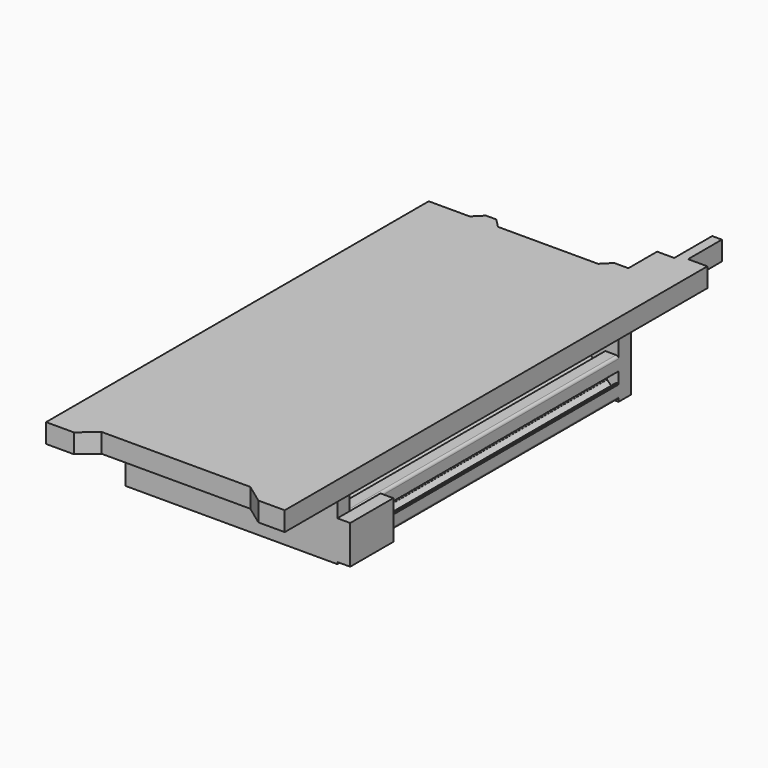
from build123d import *

# Parameters (mm, degrees)
BOX_W                 = 10
BOX_H                 = 42
BOX_DEPTH             = 30
BOX006_W              = 141
BOX006_H              = 285
BOX006_DEPTH          = 13.5
PAD022_DEPTH          = 15
PAD023_DEPTH          = 15
BOX027_W              = 165
BOX027_H              = 12
BOX027_DEPTH          = 45
BOX034_W              = 165
BOX034_H              = 12
BOX034_DEPTH          = 45
PAD001_DEPTH          = 286
POCKET_DEPTH          = 864.260457
POLARPATTERN_COUNT    = 4
SKETCH003_R           = 3.65
POCKET001_DEPTH       = 286.001
POCKET002_DEPTH       = 864.260457
POLARPATTERN001_COUNT = 4
BODY_ROLL_ANGLE       = 90
BODY_PLACEMENT_ANGLE  = 180


with BuildPart() as displaymount:
    # Box → Box (new body)
    with BuildSketch(Plane(origin=(15, -180, -30), x_dir=(1, 0, 0), z_dir=(0, 0, 1))):
        with Locations((5, 21)):
            Rectangle(BOX_W, BOX_H)
    extrude(amount=BOX_DEPTH)


with BuildPart() as obj1:
    # Box006 → Box006 (new body)
    with BuildSketch(Plane(origin=(-150, -178, 0), x_dir=(1, 0, 0), z_dir=(0, 0, 1))):
        with Locations((70.5, 142.5)):
            Rectangle(BOX006_W, BOX006_H)
    extrude(amount=BOX006_DEPTH)


with BuildPart() as heatbed:
    # Sketch008 → Pad022 (new body)
    with BuildSketch(Plane.XY):
        Polygon((0, 0), (-186, 0), (-186, 186), (-154, 186), (-147, 193), (-139, 193), (-132, 186), (-54, 186), (-47, 193), (-36, 193), (-36, 221), (-22.648226, 221), (-22.648226, 258), (-15.081826, 258), (-15.081826, 225), (0, 225), align=None)
    extrude(amount=PAD022_DEPTH)


with BuildPart() as heatbed_1:
    # Body025 placement: moved
    add(heatbed.part.moved(Location((17, -47, 13))))


with BuildPart() as heatbedfront:
    # Sketch009 → Pad023 (new body)
    with BuildSketch(Plane.XY):
        Polygon((-186, 0.233641), (-186, 196.233641), (-154, 196.233641), (-147, 203.233641), (-139, 203.233641), (-132.106013, 196.12921), (-54, 196.12921), (-47, 203.12921), (-36, 203.12921), (-36, 231.12921), (-22.648226, 231.12921), (-22.648226, 261.12921), (-15.081826, 261.12921), (-15.081826, 221.212035), (0, 221.212035), (0, 0.233641), (-20.537917, 0.233641), (-35.644087, 11.233641), (-151.579498, 11.233641), (-164.319641, 0.233641), align=None)
    extrude(amount=PAD023_DEPTH)


with BuildPart() as heatbedfront_1:
    # Body026 placement: moved
    add(heatbedfront.part.moved(Location((17, -234, 13))))


with BuildPart() as coverback:
    # Box027 → Box027 (new body)
    with BuildSketch(Plane(origin=(-150, 94, -31.5), x_dir=(1, 0, 0), z_dir=(0, 0, 1))):
        with Locations((82.5, 6)):
            Rectangle(BOX027_W, BOX027_H)
    extrude(amount=BOX027_DEPTH)


with BuildPart() as coverfront:
    # Box034 → Box034 (new body)
    with BuildSketch(Plane(origin=(-150, -180, -31.5), x_dir=(1, 0, 0), z_dir=(0, 0, 1))):
        with Locations((82.5, 6)):
            Rectangle(BOX034_W, BOX034_H)
    extrude(amount=BOX034_DEPTH)


with BuildPart() as leftbaseprofile:
    # Sketch001 → Pad001 (new body)
    with BuildSketch(Plane.XY):
        with BuildLine():
            Line((-13, 15), (13, 15))
            ThreePointArc((15, 13), (14.414214, 14.414214), (13, 15))
            Line((15, 13), (15, -13))
            ThreePointArc((13, -15), (14.414214, -14.414214), (15, -13))
            Line((13, -15), (-13, -15))
            ThreePointArc((-15, -13), (-14.414214, -14.414214), (-13, -15))
            Line((-15, -13), (-15, 13))
            ThreePointArc((-13, 15), (-14.414214, 14.414214), (-15, 13))
        make_face()
    extrude(amount=PAD001_DEPTH)

    # Sketch002 (on Face9 of Pad001) → Pocket (cut, through all)
    with BuildSketch(Plane(origin=(0, 0, 0), x_dir=(1, 0, 0), z_dir=(0, 0, -1))):
        with BuildLine():
            Line((-14.5, -4.5), (-14.5, -4.2))
            ThreePointArc((-14.3, -4), (-14.441421, -4.058579), (-14.5, -4.2))
            Line((-14.3, -4), (-13.3, -4))
            ThreePointArc((-12.8, -4.5), (-12.946447, -4.146447), (-13.3, -4))
            Line((-12.8, -4.5), (-12.8, -7.75))
            ThreePointArc((-12.8, -7.75), (-12.653553, -8.103553), (-12.3, -8.25))
            Line((-12.3, -8.25), (-10.253393, -8.25))
            ThreePointArc((-10.253393, -8.25), (-10.062156, -8.211983), (-9.9, -8.103713))
            Line((-9.9, -8.103713), (-6.146607, -4.353713))
            ThreePointArc((-6.146607, -4.353713), (-6.038104, -4.191446), (-6, -4))
            Line((-6, -4), (-6, -0.95))
            ThreePointArc((-5.973863, -0.851148), (-5.993355, -0.898876), (-6, -0.95))
            Line((-5.973863, -0.851148), (-5.546137, -0.098852))
            ThreePointArc((-5.546137, -0.098852), (-5.52, 0), (-5.546137, 0.098852))
            Line((-5.546137, 0.098852), (-5.973863, 0.851148))
            ThreePointArc((-6, 0.95), (-5.993355, 0.898876), (-5.973863, 0.851148))
            Line((-6, 0.95), (-6, 4))
            ThreePointArc((-6, 4), (-6.038104, 4.191446), (-6.146607, 4.353713))
            Line((-6.146607, 4.353713), (-9.9, 8.103713))
            ThreePointArc((-9.9, 8.103713), (-10.062156, 8.211983), (-10.253393, 8.25))
            Line((-10.253393, 8.25), (-12.3, 8.25))
            ThreePointArc((-12.3, 8.25), (-12.653553, 8.103553), (-12.8, 7.75))
            Line((-12.8, 7.75), (-12.8, 4.5))
            ThreePointArc((-13.3, 4), (-12.946447, 4.146447), (-12.8, 4.5))
            Line((-13.3, 4), (-14.3, 4))
            ThreePointArc((-14.5, 4.2), (-14.441421, 4.058579), (-14.3, 4))
            Line((-14.5, 4.2), (-14.5, 4.5))
            Line((-14.5, 4.5), (-14.8, 4.5))
            ThreePointArc((-15, 4.699994), (-14.941419, 4.558577), (-14.8, 4.5))
            Line((-15, 4.699994), (-15, -4.699994))
            ThreePointArc((-14.8, -4.5), (-14.941419, -4.558577), (-15, -4.699994))
            Line((-14.5, -4.5), (-14.8, -4.5))
        make_face()
        with BuildLine():
            Line((-12.7, 13.7), (-10.5, 13.7))
            ThreePointArc((-9.5, 12.7), (-9.792893, 13.407107), (-10.5, 13.7))
            Line((-9.5, 12.7), (-9.5, 10.5))
            ThreePointArc((-10.5, 9.5), (-9.792893, 9.792893), (-9.5, 10.5))
            Line((-10.5, 9.5), (-12.7, 9.5))
            ThreePointArc((-13.7, 10.5), (-13.407107, 9.792893), (-12.7, 9.5))
            Line((-13.7, 10.5), (-13.7, 12.7))
            ThreePointArc((-12.7, 13.7), (-13.407107, 13.407107), (-13.7, 12.7))
        make_face()
    pocket = extrude(amount=-POCKET_DEPTH, mode=Mode.SUBTRACT)

    # PolarPattern: Pocket ×4 about axis
    polarpattern_axis = Axis((0, 0, 0), (0, 0, -1))
    for i in range(1, POLARPATTERN_COUNT):
        add(pocket.rotate(polarpattern_axis, i * 360 / POLARPATTERN_COUNT), mode=Mode.SUBTRACT)

    # Sketch003 (on Face2 of PolarPattern) → Pocket001 (cut, through all)
    with BuildSketch(Plane(origin=(0, 0, 0), x_dir=(1, 0, 0), z_dir=(0, 0, -1))):
        Circle(SKETCH003_R)
    extrude(amount=-POCKET001_DEPTH, mode=Mode.SUBTRACT)

    # Sketch004 (on Face2 of Pocket001) → Pocket002 (cut, through all)
    with BuildSketch(Plane(origin=(0, 0, 0), x_dir=(1, 0, 0), z_dir=(0, 0, -1))):
        with BuildLine():
            ThreePointArc((4.513199, 3.143411), (3.889499, 3.888676), (3.144366, 4.512534))
            Line((1.598808, 3.281206), (3.144366, 4.512534))
            ThreePointArc((3.281544, 1.598114), (2.581213, 2.580667), (1.598808, 3.281206))
            Line((3.281544, 1.598114), (4.513199, 3.143411))
        make_face()
    pocket002 = extrude(amount=-POCKET002_DEPTH, mode=Mode.SUBTRACT)

    # PolarPattern001: Pocket002 ×4 about axis
    polarpattern001_axis = Axis((0, 0, 0), (0, 0, -1))
    for i in range(1, POLARPATTERN001_COUNT):
        add(pocket002.rotate(polarpattern001_axis, i * 360 / POLARPATTERN001_COUNT), mode=Mode.SUBTRACT)


with BuildPart() as leftbaseprofile_1:
    # Body roll: moved
    add(leftbaseprofile.part.rotate(Axis((0, 0, 0), (1, 0, 0)), BODY_ROLL_ANGLE))


with BuildPart() as leftbaseprofile_2:
    # Body placement: moved
    add(leftbaseprofile_1.part.moved(Location((-120, -180, -15))).rotate(Axis((-120, -180, -15), (0, 0, 1)), BODY_PLACEMENT_ANGLE))


with BuildPart() as obj2:
    # Clone base: copy of LeftBaseProfile
    add(leftbaseprofile_2.part)


with BuildPart() as obj2_1:
    # Clone placement: moved
    add(obj2.part.moved(Location((120, 0, 0))))

    # Fusion001: union LeftBaseProfile
    add(leftbaseprofile_2.part)

    # Fusion002: union DisplayMount, obj1, HeatBed, HeatBedFront, CoverBack, CoverFront
    add(displaymount.part)
    add(obj1.part)
    add(heatbed_1.part)
    add(heatbedfront_1.part)
    add(coverback.part)
    add(coverfront.part)


solid = obj2_1.part
